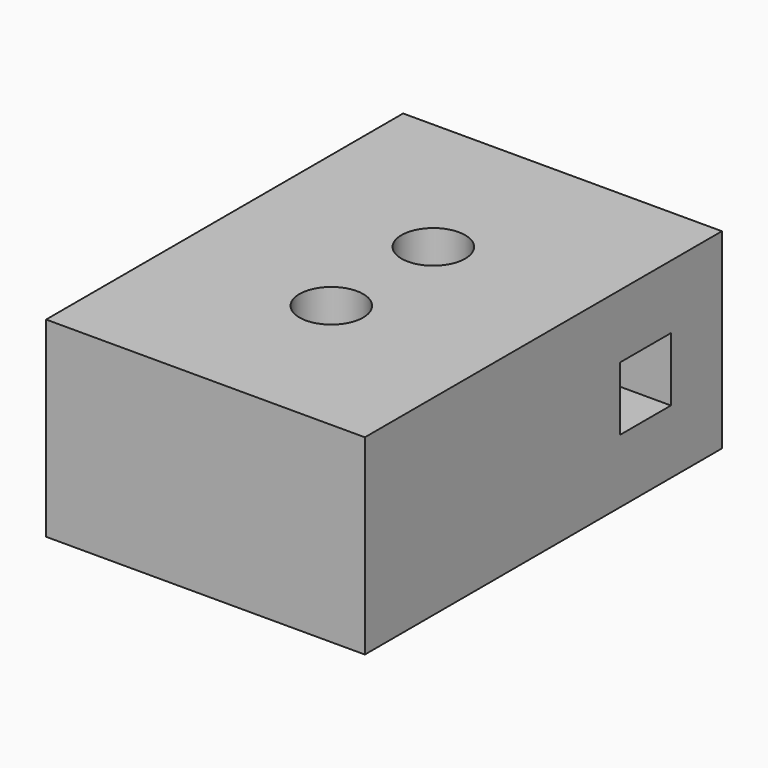
from build123d import *

# Parameters (mm, degrees)
F0_W     = 127
F0_H     = 177.8
F1_DEPTH = 38.1
F2_R     = 12.7
F3_DEPTH = 76.201
F4_W     = 25.4
F4_H     = 25.4
F5_DEPTH = 127.001


with BuildPart() as f1:
    # F0 (on Top) → F1 (new body, symmetric)
    with BuildSketch(Plane.XY):
        Rectangle(F0_W, F0_H)
    extrude(amount=F1_DEPTH, both=True)

    # F2 (on face) → F3 (cut, through all)
    with BuildSketch(Plane.XY.offset(38.1)):
        with Locations((0, 24.567431)):
            Circle(F2_R)
        with Locations((0, -26.232569)):
            Circle(F2_R)
    extrude(amount=-F3_DEPTH, mode=Mode.SUBTRACT)

    # F4 (on face) → F5 (cut, through all)
    with BuildSketch(Plane.YZ.offset(63.5)):
        with Locations((50.8, 0)):
            Rectangle(F4_W, F4_H)
    extrude(amount=-F5_DEPTH, mode=Mode.SUBTRACT)


solid = f1.part
